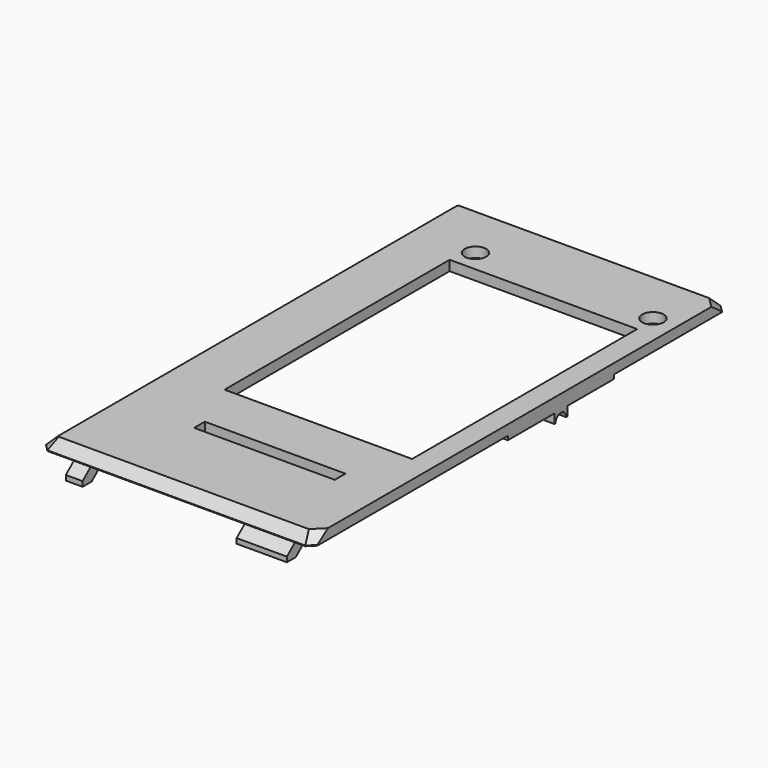
from build123d import *

# Parameters (mm, degrees)
PAD014_DEPTH       = 1.5
SKETCH020_W        = 2.5
SKETCH020_H        = 5.25
SKETCH020_W_2      = 7.5
PAD015_DEPTH       = 3
POCKET012015_DEPTH = 36.751
SKETCH024_R        = 1.6
POCKET012016_DEPTH = 4.501
SKETCH026_W        = 21
SKETCH026_H        = 2
POCKET012017_DEPTH = 4.501
POCKET012018_DEPTH = 21
SKETCH038_W        = 28
SKETCH038_H        = 42
POCKET012019_DEPTH = 1.501
PAD017_DEPTH       = 1.5
CHAMFER001_SIZE    = 1.4


with BuildPart() as part:
    # Sketch016 → Pad014 (new body)
    with BuildSketch(Plane.XY.offset(13.5)):
        Polygon((-19.25, 38.75), (19.25, 38.75), (20.25, 37.75), (20.25, -37.75), (19.25, -38.75), (-19.25, -38.75), (-20.25, -37.75), (-20.25, 37.75), align=None)
    extrude(amount=PAD014_DEPTH)

    # Sketch020 → Pad015 (new body)
    with BuildSketch(Plane(origin=(0, 0, 13.5), x_dir=(1, 0, 0), z_dir=(0, 0, -1))):
        with Locations((-15.25, 36.125)):
            Rectangle(SKETCH020_W, SKETCH020_H)
        with Locations((12.75, 36.125)):
            Rectangle(SKETCH020_W_2, SKETCH020_H)
    extrude(amount=PAD015_DEPTH)

    # Sketch021 → Pocket012015 (cut, through all)
    with BuildSketch(Plane(origin=(-16.5, 0, 13.5), x_dir=(0, -1, 0), z_dir=(-1, 0, 0))):
        Polygon((36.5, 0), (38.75, 0), (38.75, -2.25), (36.5, -0.362026), align=None)
        Polygon((33.5, 0), (37.075261, -3), (33.5, -3), align=None)
    extrude(amount=-POCKET012015_DEPTH, mode=Mode.SUBTRACT)

    # Sketch024 → Pocket012016 (cut, through all)
    with BuildSketch(Plane.XY.offset(15)):
        with Locations((-9.75, 29.25)):
            Circle(SKETCH024_R)
        with Locations((16.75, 29.25)):
            Circle(SKETCH024_R)
    extrude(amount=-POCKET012016_DEPTH, mode=Mode.SUBTRACT)

    # Sketch026 → Pocket012017 (cut, through all)
    with BuildSketch(Plane.XY.offset(15)):
        with Locations((2.75, -24.75)):
            Rectangle(SKETCH026_W, SKETCH026_H)
    extrude(amount=-POCKET012017_DEPTH, mode=Mode.SUBTRACT)

    # Sketch027 → Pocket012018 (cut)
    with BuildSketch(Plane(origin=(13.25, 0, 13.5), x_dir=(0, -1, 0), z_dir=(-1, 0, 0))):
        Polygon((25.75, 1.5), (27.25, 0), (25.75, 0), align=None)
    extrude(amount=POCKET012018_DEPTH, mode=Mode.SUBTRACT)

    # Sketch038 → Pocket012019 (cut, through all)
    with BuildSketch(Plane(origin=(0, 0, 13.5), x_dir=(1, 0, 0), z_dir=(0, 0, -1))):
        with Locations((3, -5)):
            Rectangle(SKETCH038_W, SKETCH038_H)
    extrude(amount=-POCKET012019_DEPTH, mode=Mode.SUBTRACT)

    # Sketch040 → Pad017 (new body)
    with BuildSketch(Plane(origin=(20.25, 0, 13.5), x_dir=(0, 1, 0), z_dir=(1, 0, 0))):
        with BuildLine():
            Line((17.6, 0), (-2.2, 0))
            Line((-2.2, 0), (-2.2, -0.6))
            Line((-2.2, -0.6), (6.5, -0.6))
            Line((6.5, -0.6), (6.5, -2))
            Line((6.5, -2), (6.7, -2))
            ThreePointArc((8.7, -2), (7.7, -1), (6.7, -2))
            Line((8.9, -2), (8.7, -2))
            Line((8.9, -0.6), (8.9, -2))
            Line((8.9, -0.6), (17.6, -0.6))
            Line((17.6, -0.6), (17.6, 0))
        make_face()
    extrude(amount=-PAD017_DEPTH)

    # Chamfer001
    chamfer001_edges = [part.edges().sort_by_distance(p)[0] for p in [
        (19.75, 38.25, 15),
        (0, 38.75, 15),
        (-19.75, 38.25, 15),
        (-20.25, 0, 15),
        (-19.75, -38.25, 15),
        (0, -38.75, 15),
        (19.75, -38.25, 15),
    ]]
    chamfer(chamfer001_edges, length=CHAMFER001_SIZE)


solid = part.part
